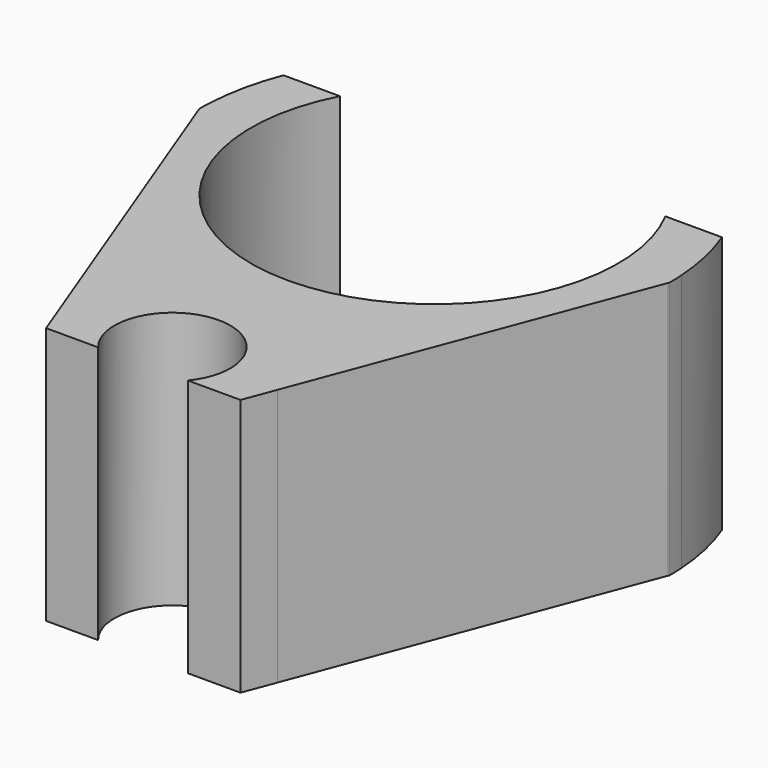
from build123d import *

# Parameters (mm, degrees)
F1_DEPTH      = 10
F1_DEPTH_BACK = 10


with BuildPart() as f1:
    # F0 (on Top) → F1 (new body, two sides)
    with BuildSketch(Plane.XY) as f1_sk:
        with BuildLine():
            ThreePointArc((12.624737, 6.608972), (0, -14.25), (-12.624737, 6.608972))
            Line((-12.624737, 6.608972), (-17.01129, 6.608972))
            ThreePointArc((-17.01129, 6.608972), (-17.826824, 3.907281), (-18.216081, 1.112158))
            Line((-18.216081, 1.112158), (-18.216081, -0.089385))
            Line((-18.216081, -0.089385), (-8.495515, -25.705506))
            Line((-8.495515, -25.705506), (-7.51727, -28.283427))
            Line((-7.51727, -28.283427), (-3.479173, -28.283427))
            ThreePointArc((-3.479173, -28.283427), (0, -20.92942), (3.479173, -28.283427))
            Line((3.479173, -28.283427), (7.568167, -28.283427))
            Line((7.568167, -28.283427), (8.489945, -25.842737))
            Line((8.489945, -25.842737), (18.212268, -0.099907))
            Line((18.212268, -0.099907), (18.212268, 1.172941))
            ThreePointArc((18.212268, 1.172941), (17.82028, 3.93702), (17.01129, 6.608972))
            Line((17.01129, 6.608972), (12.624737, 6.608972))
        make_face()
        with BuildLine():
            Line((-18.216081, -0.089385), (-18.216081, 1.112158))
            ThreePointArc((-18.216081, 1.112158), (-18.241518, 0.556337), (-18.25, 0))
            Line((-18.25, 0), (-18.216081, -0.089385))
        make_face()
        with BuildLine():
            ThreePointArc((18.25, 0), (18.240565, 0.586774), (18.212268, 1.172941))
            Line((18.212268, 1.172941), (18.212268, -0.099907))
            Line((18.212268, -0.099907), (18.25, 0))
        make_face()
    extrude(amount=F1_DEPTH)
    extrude(f1_sk.sketch, amount=-F1_DEPTH_BACK)


solid = f1.part
